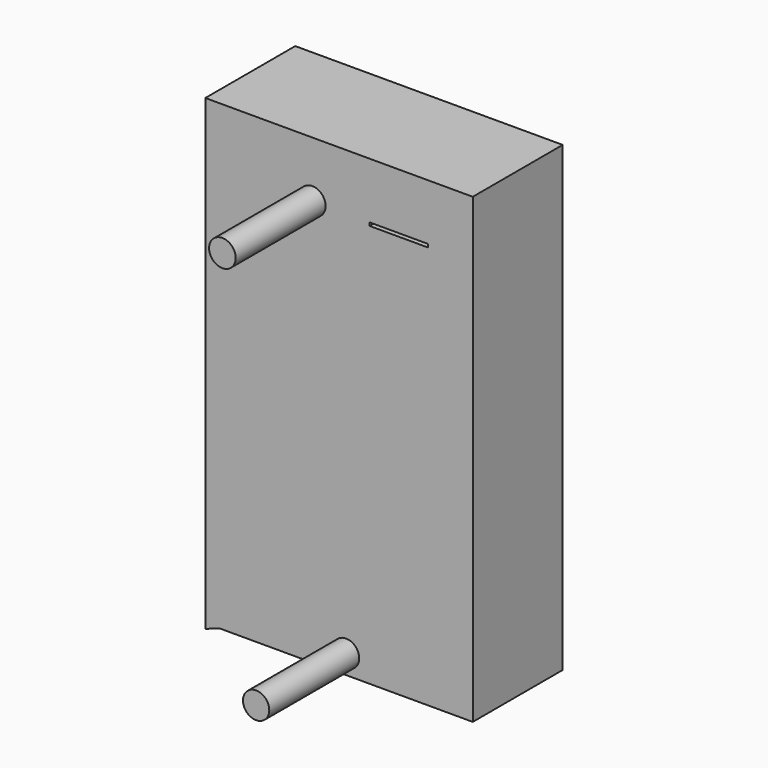
from build123d import *

# Parameters (mm, degrees)
F0_W     = 57.2733432055
F0_H     = 100.7320135832
F0_W_2   = 13.239064021
F0_H_2   = 0.7195146754
F1_DEPTH = 25.4
F2_R     = 3.0047813391
F2_R_2   = 2.9666314484
F3_DEPTH = 25.4


with BuildPart() as f1:
    # F0 (on Front) → F1 (new body)
    with BuildSketch(Plane.XZ):
        Polygon((-34.5366895199, 39.7171974182), (-31.3708260655, 35.9757170081), (25.9025171399, 35.9757170081), (25.9025171399, 39.7171974182), align=None)
        with Locations((-2.7341544628, -14.3902897835)):
            Rectangle(F0_W, F0_H)
        with Locations((9.2097852612, 26.6939844005)):
            Rectangle(F0_W_2, F0_H_2, mode=Mode.SUBTRACT)
        Polygon((-31.3708260655, -64.7562965751), (-31.3708260655, 35.9757170081), (-34.5366895199, 39.7171974182), (-34.5366895199, -65.907523036), align=None)
    extrude(amount=F1_DEPTH)

    # F2 (on face) → F3 (join)
    with BuildSketch(Plane.XZ.offset(25.4)):
        with Locations((-10.3610074148, 27.0537417382)):
            Circle(F2_R)
        with Locations((-2.7341544628, -60.4392103851)):
            Circle(F2_R_2)
    extrude(amount=F3_DEPTH)


solid = f1.part
